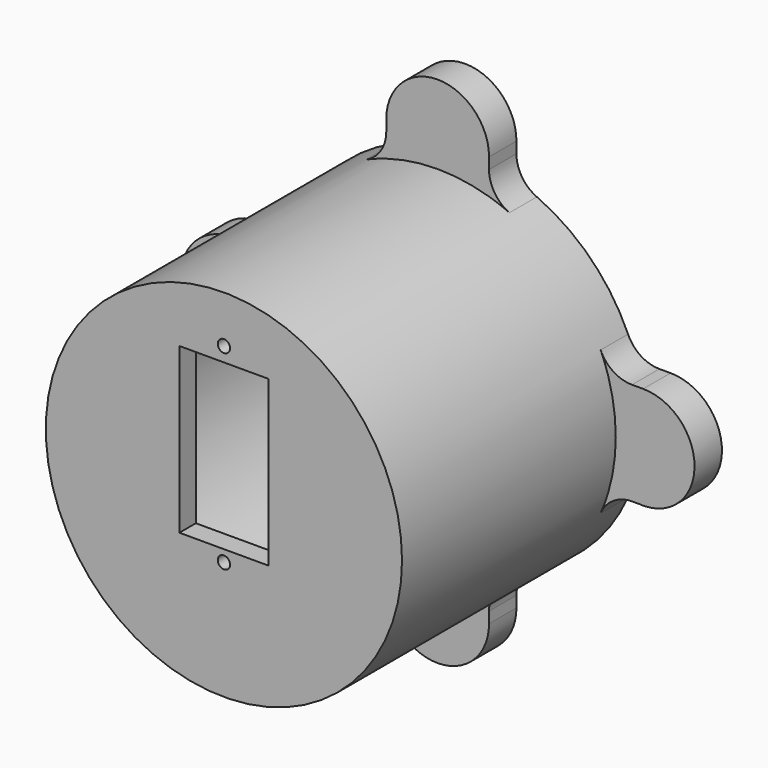
from build123d import *

# Parameters (mm, degrees)
F0_R      = 26
F1_DEPTH  = 44
F2_T      = -3
F4_DEPTH  = 5
F5_W      = 13
F5_H      = 24
F6_DEPTH  = 25
F7_R      = 0.9
F8_DEPTH  = 44.001
F9_R      = 5.5
F10_DEPTH = 2
F11_R     = 5


with BuildPart() as f1:
    # F0 (on Front) → F1 (new body)
    with BuildSketch(Plane.XZ):
        Circle(F0_R)
    extrude(amount=F1_DEPTH)

    # F2
    f2_openings = [f1.faces().sort_by_distance(p)[0] for p in [
        (0, 0, 0),
    ]]
    offset(amount=F2_T, openings=f2_openings)

    # F3 (on Front) → F4 (join)
    with BuildSketch(Plane.XZ):
        with BuildLine():
            ThreePointArc((-24.8986899768, -7.4870045706), (-25.9999991145, 0.0067856521), (-24.894778569, 7.5))
            Line((-24.894778569, 7.5), (-29.5586808862, 7.5))
            Line((-29.5586808862, 7.5), (-29.5586808862, 7.4870045706))
            ThreePointArc((-29.5586808862, 7.4870045706), (-37.5, 0), (-29.5586808862, -7.4870045706))
            Line((-29.5586808862, -7.4870045706), (-24.8986899768, -7.4870045706))
        make_face()
        with BuildLine():
            Line((7.5, 24.894778569), (7.5, 30))
            ThreePointArc((7.5, 30), (0, 37.5), (-7.5, 30))
            Line((-7.5, 30), (-7.5, 24.894778569))
            ThreePointArc((-7.5, 24.894778569), (0, 26), (7.5, 24.894778569))
        make_face()
        with BuildLine():
            Line((-7.5, -24.894778569), (-7.5, -30))
            ThreePointArc((-7.5, -30), (0, -37.5), (7.5, -30))
            Line((7.5, -30), (7.5, -24.894778569))
            ThreePointArc((7.5, -24.894778569), (0, -26), (-7.5, -24.894778569))
        make_face()
        with BuildLine():
            Line((30.4413191138, -7.4870045706), (29.5586808862, -7.4870045706))
            ThreePointArc((29.5586808862, -7.4870045706), (30, -7.5), (30.4413191138, -7.4870045706))
        make_face()
        with BuildLine():
            Line((24.8986899768, -7.4870045706), (29.5586808862, -7.4870045706))
            Line((29.5586808862, -7.4870045706), (30.4413191138, -7.4870045706))
            ThreePointArc((30.4413191138, -7.4870045706), (37.4967504387, 0.2207552046), (30, 7.5))
            Line((30, 7.5), (24.894778569, 7.5))
            ThreePointArc((24.894778569, 7.5), (25.9999991145, 0.0067856521), (24.8986899768, -7.4870045706))
        make_face()
    extrude(amount=F4_DEPTH)

    # F5 (on face) → F6 (cut)
    with BuildSketch(Plane.XZ.offset(44)):
        with Locations((0, 5)):
            Rectangle(F5_W, F5_H)
    extrude(amount=-F6_DEPTH, mode=Mode.SUBTRACT)

    # F7 (on face) → F8 (cut, through all)
    with BuildSketch(Plane.XZ.offset(44)):
        with Locations((0, -8.7)):
            Circle(F7_R)
        with Locations((0, 19.1)):
            Circle(F7_R)
    extrude(amount=-F8_DEPTH, mode=Mode.SUBTRACT)

    # F9 (on face) → F10 (cut)
    with BuildSketch(Plane(origin=(0, 0, 0), x_dir=(-1, 0, 0), z_dir=(0, 1, 0))):
        with Locations((-30, 0)):
            Circle(F9_R)
        with Locations((0, 30)):
            Circle(F9_R)
        with Locations((30, 0)):
            Circle(F9_R)
        with Locations((0, -30)):
            Circle(F9_R)
    extrude(amount=-F10_DEPTH, mode=Mode.SUBTRACT)

    # F11
    f11_edges = [f1.edges().sort_by_distance(p)[0] for p in [
        (24.89869, -2.5, -7.487005),
        (7.5, -2.5, -24.894779),
        (-7.5, -2.5, -24.894779),
        (-24.89869, -2.5, -7.487005),
        (-24.894779, -2.5, 7.5),
        (-7.5, -2.5, 24.894779),
        (7.5, -2.5, 24.894779),
        (24.894779, -2.5, 7.5),
    ]]
    fillet(f11_edges, radius=F11_R)


solid = f1.part
